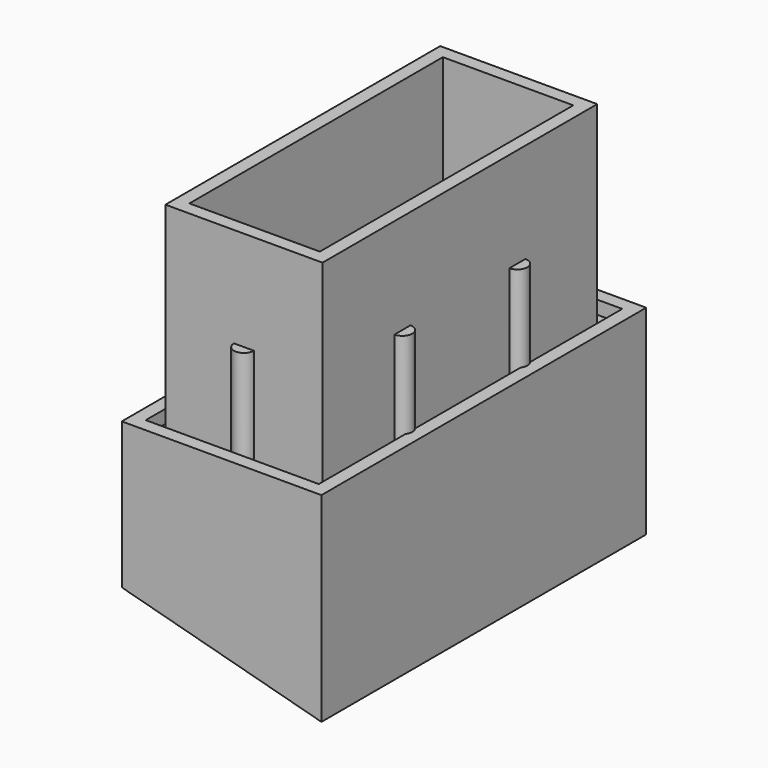
from build123d import *

# Parameters (mm, degrees)
SKETCH061_W        = 11.8
SKETCH061_H        = 25.8
SKETCH061_W_2      = 9.8
SKETCH061_H_2      = 23.8
PAD031_DEPTH       = 15
SKETCH062_W        = 15
SKETCH062_H        = 30.5
SKETCH062_W_2      = 9.8
SKETCH062_H_2      = 23.8
PAD032_DEPTH       = 1
SKETCH063_W        = 15
SKETCH063_H        = 30.5
SKETCH063_W_2      = 13
SKETCH063_H_2      = 28.5
PAD033_DEPTH       = 15
POCKET007016_DEPTH = 30.501
SKETCH081_R        = 0.75
PAD042_DEPTH       = 7.5
SKETCH065_W        = 15.029142
SKETCH065_H        = 29.5
PAD034_DEPTH       = 1
SKETCH066_W        = 13.8
SKETCH066_H        = 5
POCKET007017_DEPTH = 3


with BuildPart() as part:
    # Sketch061 → Pad031 (new body)
    with BuildSketch(Plane.XY):
        with Locations((-57.65, -16.5)):
            Rectangle(SKETCH061_W, SKETCH061_H)
        with Locations((-57.65, -16.5)):
            Rectangle(SKETCH061_W_2, SKETCH061_H_2, mode=Mode.SUBTRACT)
    extrude(amount=PAD031_DEPTH)

    # Sketch062 → Pad032 (join)
    with BuildSketch(Plane.XY):
        with Locations((-57.65, -16.25)):
            Rectangle(SKETCH062_W, SKETCH062_H)
        with Locations((-57.65, -16.5)):
            Rectangle(SKETCH062_W_2, SKETCH062_H_2, mode=Mode.SUBTRACT)
    extrude(amount=-PAD032_DEPTH)

    # Sketch063 (on DatumPlane) → Pad033 (join)
    with BuildSketch(Plane(origin=(0, 0, 1), x_dir=(-1, 0, 0), z_dir=(0, 0, -1))):
        with Locations((57.65, -16.25)):
            Rectangle(SKETCH063_W, SKETCH063_H)
        with Locations((57.65, -16.25)):
            Rectangle(SKETCH063_W_2, SKETCH063_H_2, mode=Mode.SUBTRACT)
    extrude(amount=PAD033_DEPTH)

    # Sketch064 (on DatumPlane) → Pocket007016 (cut, through all)
    with BuildSketch(Plane(origin=(-65.15, -31.5, 1), x_dir=(1, 0, 0), z_dir=(0, -1, 0))):
        Polygon((15, -15), (0, -10.980762), (0, -15), align=None)
    extrude(amount=-POCKET007016_DEPTH, mode=Mode.SUBTRACT)

    # Sketch081 (on DatumPlane) → Pad042 (join)
    with BuildSketch(Plane.XY):
        with Locations((-57.65, -3.6)):
            Circle(SKETCH081_R)
        with Locations((-57.65, -29.4)):
            Circle(SKETCH081_R)
        with Locations((-51.75, -21.9)):
            Circle(SKETCH081_R)
        with Locations((-51.75, -11.1)):
            Circle(SKETCH081_R)
        with Locations((-63.55, -11.1)):
            Circle(SKETCH081_R)
        with Locations((-63.55, -21.9)):
            Circle(SKETCH081_R)
    extrude(amount=PAD042_DEPTH)

    # Sketch065 (on Face37 of Pocket007016) → Pad034 (join)
    with BuildSketch(Plane(origin=(-6.859413, 0, -25.599678), x_dir=(0.965926, 0, -0.258819), z_dir=(-0.258819, 0, -0.965926))):
        with Locations((-52.832285, 15.75)):
            Rectangle(SKETCH065_W, SKETCH065_H)
    extrude(amount=-PAD034_DEPTH)

    # Sketch066 (on Face36 of Pad034) → Pocket007017 (cut)
    with BuildSketch(Plane.XY.offset(7.5)):
        with Locations((-57.65, -1.1)):
            Rectangle(SKETCH066_W, SKETCH066_H)
    extrude(amount=-POCKET007017_DEPTH, mode=Mode.SUBTRACT)


with BuildPart() as part_1:
    # Body004 placement: moved
    add(part.part.moved(Location((0, -32, -16.75))))


solid = part_1.part
